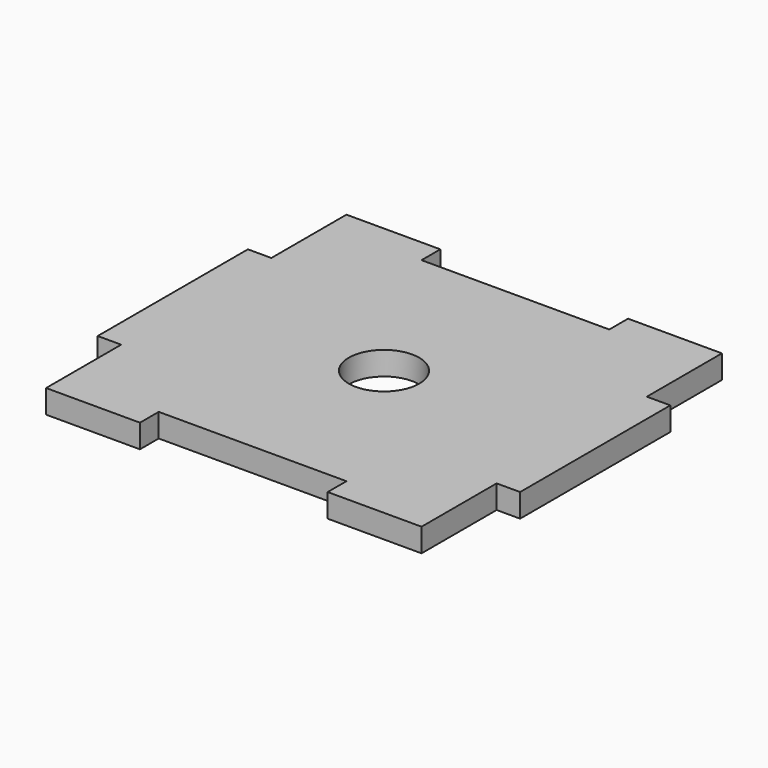
from build123d import *

# Parameters (mm, degrees)
F0_R     = 4.7625
F0_W     = 3.175
F0_H     = 25.4
F1_DEPTH = 3.175


with BuildPart() as f1:
    # F0 (on Top) → F1 (new body)
    with BuildSketch(Plane.XY):
        Polygon((25.4, 12.7), (25.4, 25.4), (12.7, 25.4), (12.7, 22.225), (-12.7, 22.225), (-12.7, 25.4), (-25.4, 25.4), (-25.4, 12.7), (-22.225, 12.7), (-22.225, -12.7), (-25.4, -12.7), (-25.4, -25.4), (-12.7, -25.4), (-12.7, -22.225), (12.7, -22.225), (12.7, -25.4), (25.4, -25.4), (25.4, -12.7), (22.225, -12.7), (22.225, 12.7), align=None)
        Circle(F0_R, mode=Mode.SUBTRACT)
        with Locations((-26.9875, 0)):
            Rectangle(F0_W, F0_H)
        with Locations((-23.8125, 0)):
            Rectangle(F0_W, F0_H)
        with Locations((26.9875, 0)):
            Rectangle(F0_W, F0_H)
        with Locations((23.8125, 0)):
            Rectangle(F0_W, F0_H)
    extrude(amount=F1_DEPTH)


solid = f1.part
